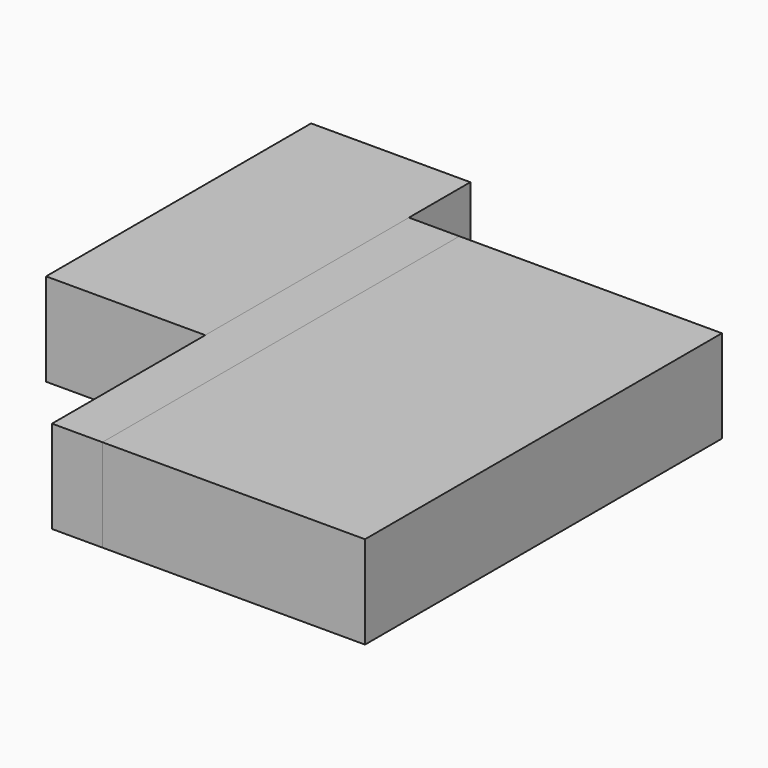
from build123d import *

# Parameters (mm, degrees)
F0_W      = 43.584019
F0_H      = 90.701332
F0_W_2    = 71.89224
F0_H_2    = 122.143068
F1_DEPTH  = 25.4
F1_FACE_W = 122.143068
F1_FACE_H = 25.4
F2_DEPTH  = 13.804499


with BuildPart() as f1:
    # F0 (on Top) → F1 (new body)
    with BuildSketch(Plane.XY):
        with Locations((-71.542629, 36.727775)):
            Rectangle(F0_W, F0_H)
        Rectangle(F0_W_2, F0_H_2)
    extrude(amount=F1_DEPTH)


with BuildPart() as f2:
    # F1_face (on face) → F2 (new body, through all)
    with BuildSketch(Plane(origin=(-35.94612, 0, 12.7), x_dir=(0, -1, 0), z_dir=(-1, 0, 0))):
        Rectangle(F1_FACE_W, F1_FACE_H)
    extrude(amount=F2_DEPTH)


solid = Compound([f1.part, f2.part])
